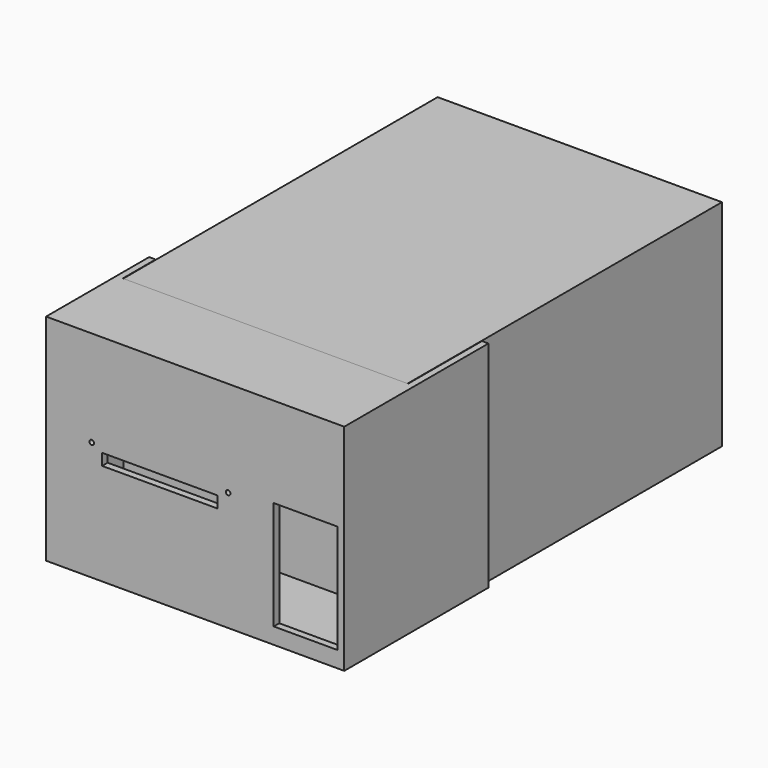
from build123d import *

# Parameters (mm, degrees)
F2_W      = 123
F2_H      = 93
F3_DEPTH  = 170
F4_R      = 1.25
F5_DEPTH  = 25
F7_DEPTH  = 25
F9_W      = 129
F9_H      = 3
F9_H_2    = 87
F9_W_2    = 27.5
F9_H_3    = 47
F9_R      = 1
F9_W_3    = 50
F9_H_4    = 5
F10_DEPTH = 3
F11_DEPTH = 35
F12_R     = 2.75
F14_DEPTH = 2.8
F17_DEPTH = 2.8
F18_DEPTH = 6


with BuildPart() as f3:
    # F2 (on Front) → F3 (new body)
    with BuildSketch(Plane.XZ):
        with Locations((61.5, 46.5)):
            Rectangle(F2_W, F2_H)
    extrude(amount=F3_DEPTH)

    # F4 (on face) → F5 (cut)
    with BuildSketch(Plane(origin=(0, 0, 0), x_dir=(0, -1, 0), z_dir=(-1, 0, 0))):
        with Locations((160, 71.5)):
            Circle(F4_R)
        with Locations((160, 21.5)):
            Circle(F4_R)
    extrude(amount=-F5_DEPTH, mode=Mode.SUBTRACT)

    # F6 (on face) → F7 (cut)
    with BuildSketch(Plane.YZ.offset(123)):
        with BuildLine():
            ThreePointArc((-153, 70), (-155, 72), (-157, 70))
            Line((-157, 70), (-157, 59))
            ThreePointArc((-157, 59), (-155, 57), (-153, 59))
            Line((-153, 59), (-153, 70))
        make_face()
        with BuildLine():
            Line((-147, 59), (-147, 70))
            ThreePointArc((-147, 70), (-149, 72), (-151, 70))
            Line((-151, 70), (-151, 59))
            ThreePointArc((-151, 59), (-149, 57), (-147, 59))
        make_face()
        with BuildLine():
            Line((-141, 59), (-141, 70))
            ThreePointArc((-141, 70), (-143, 72), (-145, 70))
            Line((-145, 70), (-145, 59))
            ThreePointArc((-145, 59), (-143, 57), (-141, 59))
        make_face()
        with BuildLine():
            Line((-135, 59), (-135, 70))
            ThreePointArc((-135, 70), (-137, 72), (-139, 70))
            Line((-139, 70), (-139, 59))
            ThreePointArc((-139, 59), (-137, 57), (-135, 59))
        make_face()
    extrude(amount=-F7_DEPTH, mode=Mode.SUBTRACT)


with BuildPart() as f10:
    # F9 (on offset) → F10 (new body)
    with BuildSketch(Plane.XZ.offset(205)):
        with Locations((61.5, 1.5)):
            Rectangle(F9_W, F9_H)
        with Locations((61.5, 46.5)):
            Rectangle(F9_W, F9_H_2)
        with Locations((109.25, 30.5)):
            Rectangle(F9_W_2, F9_H_3, mode=Mode.SUBTRACT)
        with Locations((16.75, 51.5)):
            Circle(F9_R, mode=Mode.SUBTRACT)
        with Locations((46.25, 46.5)):
            Rectangle(F9_W_3, F9_H_4, mode=Mode.SUBTRACT)
        with Locations((75.75, 51.5)):
            Circle(F9_R, mode=Mode.SUBTRACT)
        with Locations((61.5, 91.5)):
            Rectangle(F9_W, F9_H)
    extrude(amount=F10_DEPTH)



with BuildPart() as f11:
    # F9 (on offset) → F11 (new body, through all)
    with BuildSketch(Plane.XZ.offset(205)):
        with Locations((61.5, 91.5)):
            Rectangle(F9_W, F9_H)
        with Locations((61.5, 1.5)):
            Rectangle(F9_W, F9_H)
    extrude(amount=-F11_DEPTH)


with BuildPart() as f10_1:
    add(f10.part)

    add(f11.part)  # F14 merges F11
    # F12 (on face) → F14 (join, through all)
    with BuildSketch(Plane(origin=(-3, 0, 0), x_dir=(0, -1, 0), z_dir=(-1, 0, 0))):
        Polygon((208, 0), (208, 93), (170, 93), (152.25, 93), (152.25, 0), align=None)
        with Locations((160, 21.5)):
            Circle(F12_R, mode=Mode.SUBTRACT)
        with Locations((160, 71.5)):
            Circle(F12_R, mode=Mode.SUBTRACT)
    extrude(amount=-F14_DEPTH)

    # F15 (on face) → F17 (join, through all)
    with BuildSketch(Plane.YZ.offset(126)):
        Polygon((-170, 93), (-208, 93), (-208, 0), (-130, 0), (-130, 93), align=None)
        with BuildLine():
            Line((-156, 59), (-156, 70))
            ThreePointArc((-156, 70), (-155, 71), (-154, 70))
            Line((-154, 70), (-154, 59))
            ThreePointArc((-154, 59), (-155, 58), (-156, 59))
        make_face(mode=Mode.SUBTRACT)
        with BuildLine():
            Line((-150, 59), (-150, 70))
            ThreePointArc((-150, 70), (-149, 71), (-148, 70))
            Line((-148, 70), (-148, 59))
            ThreePointArc((-148, 59), (-149, 58), (-150, 59))
        make_face(mode=Mode.SUBTRACT)
        with BuildLine():
            Line((-144, 59), (-144, 70))
            ThreePointArc((-144, 70), (-143, 71), (-142, 70))
            Line((-142, 70), (-142, 59))
            ThreePointArc((-142, 59), (-143, 58), (-144, 59))
        make_face(mode=Mode.SUBTRACT)
        with BuildLine():
            Line((-138, 59), (-138, 70))
            ThreePointArc((-138, 70), (-137, 71), (-136, 70))
            Line((-136, 70), (-136, 59))
            ThreePointArc((-136, 59), (-137, 58), (-138, 59))
        make_face(mode=Mode.SUBTRACT)
    extrude(amount=-F17_DEPTH)

    # F15 (on face) → F18 (join)
    with BuildSketch(Plane.YZ.offset(126)):
        with BuildLine():
            ThreePointArc((-154, 70), (-155, 71), (-156, 70))
            Line((-156, 70), (-156, 59))
            ThreePointArc((-156, 59), (-155, 58), (-154, 59))
            Line((-154, 59), (-154, 70))
        make_face()
        with BuildLine():
            ThreePointArc((-148, 70), (-149, 71), (-150, 70))
            Line((-150, 70), (-150, 59))
            ThreePointArc((-150, 59), (-149, 58), (-148, 59))
            Line((-148, 59), (-148, 70))
        make_face()
        with BuildLine():
            ThreePointArc((-142, 70), (-143, 71), (-144, 70))
            Line((-144, 70), (-144, 59))
            ThreePointArc((-144, 59), (-143, 58), (-142, 59))
            Line((-142, 59), (-142, 70))
        make_face()
        with BuildLine():
            ThreePointArc((-136, 70), (-137, 71), (-138, 70))
            Line((-138, 70), (-138, 59))
            ThreePointArc((-138, 59), (-137, 58), (-136, 59))
            Line((-136, 59), (-136, 70))
        make_face()
    extrude(amount=-F18_DEPTH)


solid = Compound([f3.part, f10_1.part])
